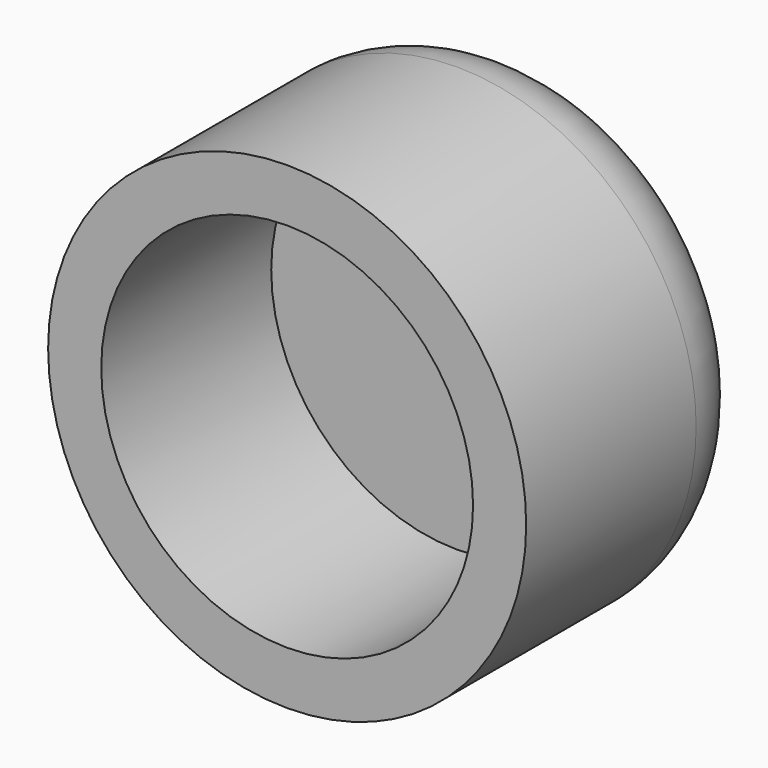
from build123d import *

# Parameters (mm, degrees)
F0_R        = 14.2875
F0_R_2      = 11.1125
F1_DEPTH    = 12.7
F1_FACE_R   = 14.2875
F1_FACE_R_2 = 11.1125
F2_DEPTH    = 5.08
F3_R        = 5.08


with BuildPart() as f1:
    # F0 (on Front) → F1 (new body)
    with BuildSketch(Plane.XZ):
        Circle(F0_R)
        Circle(F0_R_2, mode=Mode.SUBTRACT)
    extrude(amount=F1_DEPTH)

    # F0 (on Front) + F1_face (on face) → F2 (join)
    with BuildSketch(Plane.XZ):
        Circle(F0_R_2)
    with BuildSketch(Plane.XZ.offset(12.7)):
        Circle(F1_FACE_R)
        Circle(F1_FACE_R_2, mode=Mode.SUBTRACT)
    extrude(amount=F2_DEPTH)

    # F3
    f3_edges = [f1.edges().sort_by_distance(p)[0] for p in [
        (-14.2875, 0, 0),
    ]]
    fillet(f3_edges, radius=F3_R)


solid = f1.part
